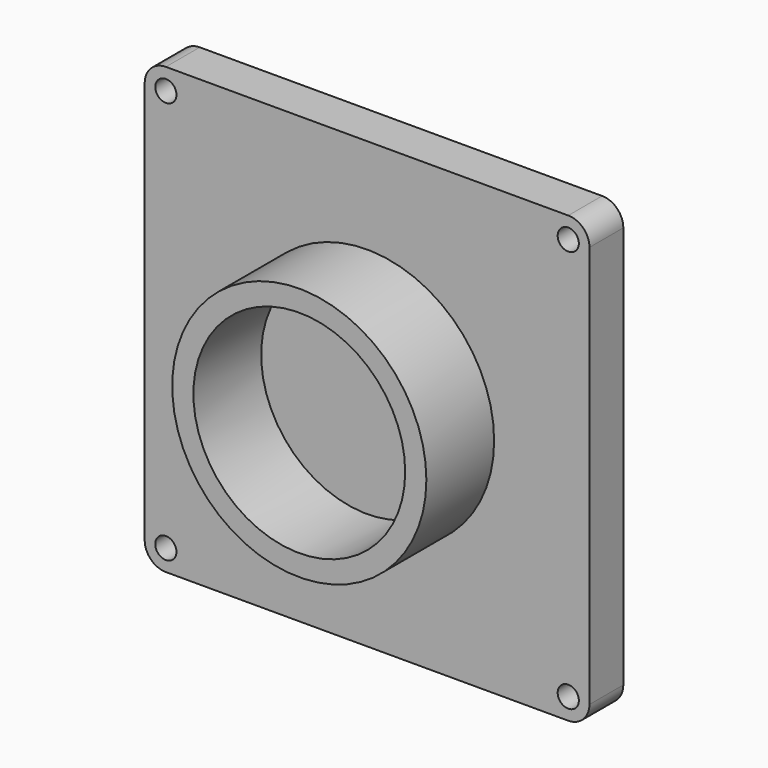
from build123d import *

# Parameters (mm, degrees)
F0_R     = 3.175
F1_DEPTH = 12.7
F2_R     = 38.1
F2_R_2   = 31.75
F3_DEPTH = 25.4


with BuildPart() as f1:
    # F0 (on Front) → F1 (new body)
    with BuildSketch(Plane.XZ):
        with BuildLine():
            Line((67.598637, 63.992769), (-53.051363, 63.992769))
            ThreePointArc((-53.051363, 63.992769), (-57.541491, 62.132897), (-59.401363, 57.642769))
            Line((-59.401363, 57.642769), (-59.401363, -63.007231))
            ThreePointArc((-59.401363, -63.007231), (-57.541491, -67.497359), (-53.051363, -69.357231))
            Line((-53.051363, -69.357231), (67.598637, -69.357231))
            ThreePointArc((67.598637, -69.357231), (72.088765, -67.497359), (73.948637, -63.007231))
            Line((73.948637, -63.007231), (73.948637, 57.642769))
            ThreePointArc((73.948637, 57.642769), (72.088765, 62.132897), (67.598637, 63.992769))
        make_face()
        with Locations((-53.051363, -63.007231)):
            Circle(F0_R, mode=Mode.SUBTRACT)
        with Locations((67.598637, -63.007231)):
            Circle(F0_R, mode=Mode.SUBTRACT)
        with Locations((-53.051363, 57.642769)):
            Circle(F0_R, mode=Mode.SUBTRACT)
        with Locations((67.598637, 57.642769)):
            Circle(F0_R, mode=Mode.SUBTRACT)
    extrude(amount=F1_DEPTH)

    # F2 (on face) → F3 (join)
    with BuildSketch(Plane.XZ.offset(12.7)):
        with Locations((7.273637, -2.682231)):
            Circle(F2_R)
        with Locations((7.273637, -2.682231)):
            Circle(F2_R_2, mode=Mode.SUBTRACT)
    extrude(amount=F3_DEPTH)


solid = f1.part
